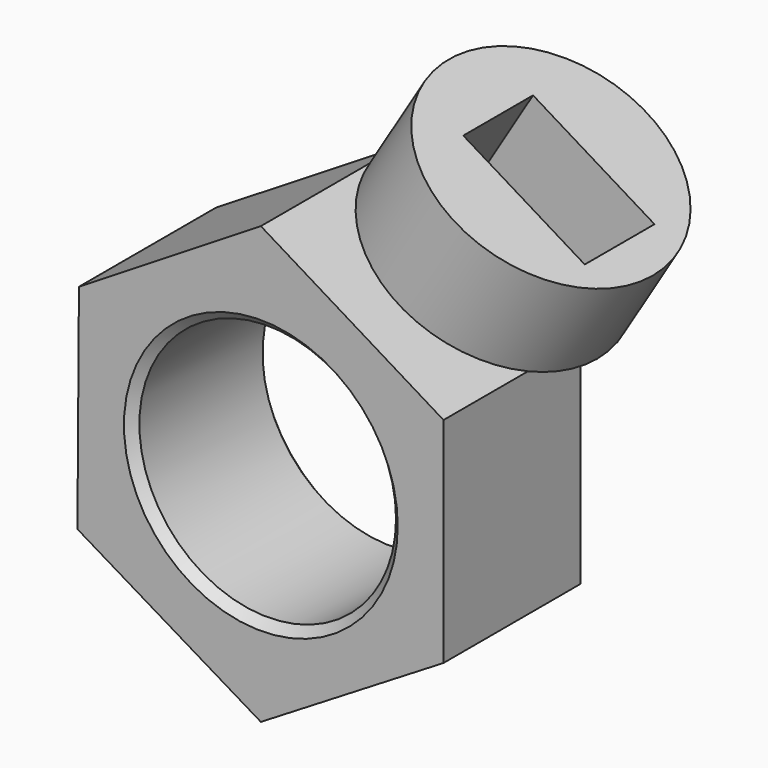
from build123d import *

# Parameters (mm, degrees)
F0_R     = 30
F1_DEPTH = 40
F2_SIZE  = 2
F3_R     = 27.9010613337
F3_W     = 33.2406070083
F3_H     = 20.383390598
F4_DEPTH = 25


with BuildPart() as f1:
    # F0 (on Front) → F1 (new body)
    with BuildSketch(Plane.XZ):
        Polygon((0, 51.3005799085), (-42.5238697261, 25), (-42.8737902332, -24.9987755414), (0, -50.724990013), (42.7005271465, -24.7122050523), (42.7005271465, 25.2877949477), align=None)
        Circle(F0_R, mode=Mode.SUBTRACT)
    extrude(amount=F1_DEPTH)

    # F2
    f2_edges = [f1.edges().sort_by_distance(p)[0] for p in [
        (-30, -40, 0),
        (-30, 0, 0),
    ]]
    chamfer(f2_edges, length=F2_SIZE)

    # F3 (on face) → F4 (join)
    with BuildSketch(Plane(origin=(22.7930452708, 0, 37.4152575284), x_dir=(0.8540105429, 0, -0.5202556992), z_dir=(0.5202556992, 0, 0.8540105429))):
        Circle(F3_R)
        with Locations((2.8576394543, -0.7141805254)):
            Rectangle(F3_W, F3_H, mode=Mode.SUBTRACT)
    extrude(amount=F4_DEPTH)


solid = f1.part
